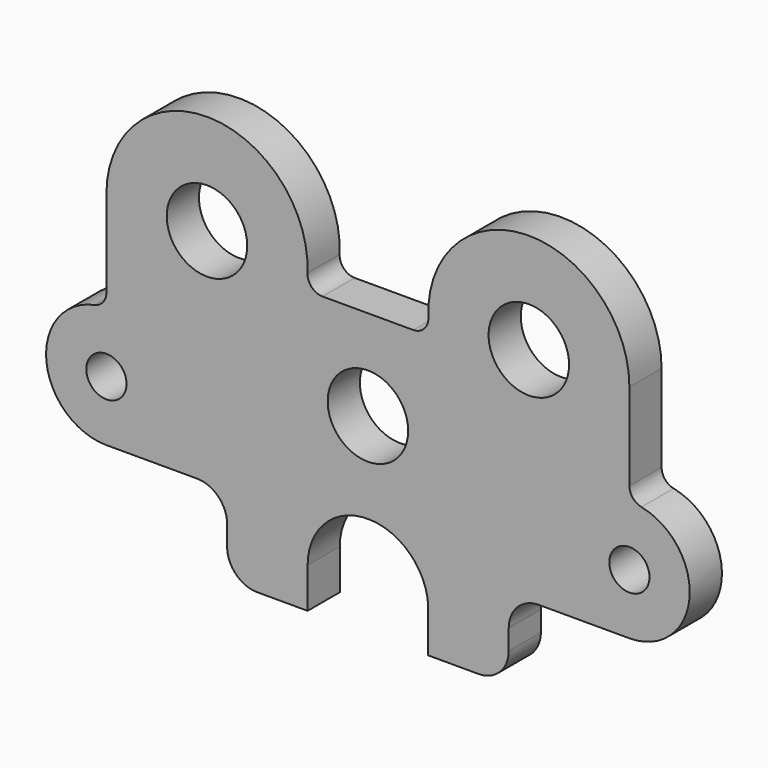
from build123d import *

# Parameters (mm, degrees)
F0_R     = 7.9375
F0_R_2   = 12.7
F0_R_3   = 6.35
F1_DEPTH = 6.35


with BuildPart() as f1:
    # F0 (on Front) → F1 (new body, symmetric)
    with BuildSketch(Plane.XZ):
        with BuildLine():
            ThreePointArc((82.55, -7.463384), (50.109619, 24.279109), (19.080024, -8.843819))
            ThreePointArc((19.080024, -8.843819), (17.762053, -12.344458), (14.322027, -13.813384))
            Line((14.322027, -13.813384), (0, -13.813384))
            Line((0, -13.813384), (-14.322027, -13.813384))
            ThreePointArc((-14.322027, -13.813384), (-17.762053, -12.344458), (-19.080024, -8.843819))
            ThreePointArc((-19.080024, -8.843819), (-50.109619, 24.279109), (-82.55, -7.463384))
            Line((-82.55, -7.463384), (-82.55, -34.931994))
            ThreePointArc((-82.55, -34.931994), (-83.623483, -37.944063), (-86.36, -39.598272))
            ThreePointArc((-86.36, -39.598272), (-101.503534, -60.17808), (-82.55, -77.313384))
            Line((-82.55, -77.313384), (-53.975, -77.313384))
            ThreePointArc((-53.975, -77.313384), (-47.239808, -80.103192), (-44.45, -86.838384))
            Line((-44.45, -86.838384), (-44.45, -93.188384))
            ThreePointArc((-44.45, -93.188384), (-41.660192, -99.923576), (-34.925, -102.713384))
            Line((-34.925, -102.713384), (-19.030211, -102.713384))
            Line((-19.030211, -102.713384), (-19.030211, -90.013384))
            ThreePointArc((-19.030211, -90.013384), (-0.516209, -70.970926), (19.039627, -88.941812))
            Line((19.039627, -88.941812), (19.030211, -102.713384))
            Line((19.030211, -102.713384), (34.925, -102.713384))
            ThreePointArc((34.925, -102.713384), (41.660192, -99.923576), (44.45, -93.188384))
            Line((44.45, -93.188384), (44.45, -86.838384))
            ThreePointArc((44.45, -86.838384), (47.239808, -80.103192), (53.975, -77.313384))
            Line((53.975, -77.313384), (82.55, -77.313384))
            ThreePointArc((82.55, -77.313384), (101.503534, -60.17808), (86.36, -39.598272))
            ThreePointArc((86.36, -39.598272), (83.623483, -37.944063), (82.55, -34.931994))
            Line((82.55, -34.931994), (82.55, -7.463384))
        make_face()
        with Locations((-82.55, -58.263384)):
            Circle(F0_R, mode=Mode.SUBTRACT)
        with Locations((0, -42.388384)):
            Circle(F0_R_2, mode=Mode.SUBTRACT)
        with Locations((82.55, -58.263384)):
            Circle(F0_R, mode=Mode.SUBTRACT)
        with Locations((-50.8, -7.463384)):
            Circle(F0_R_2, mode=Mode.SUBTRACT)
        with Locations((50.8, -7.463384)):
            Circle(F0_R_2, mode=Mode.SUBTRACT)
        with Locations((82.55, -58.263384)):
            Circle(F0_R)
        with Locations((82.55, -58.263384)):
            Circle(F0_R_3, mode=Mode.SUBTRACT)
        with Locations((-82.55, -58.263384)):
            Circle(F0_R)
        with Locations((-82.55, -58.263384)):
            Circle(F0_R_3, mode=Mode.SUBTRACT)
    extrude(amount=F1_DEPTH, both=True)


solid = f1.part
